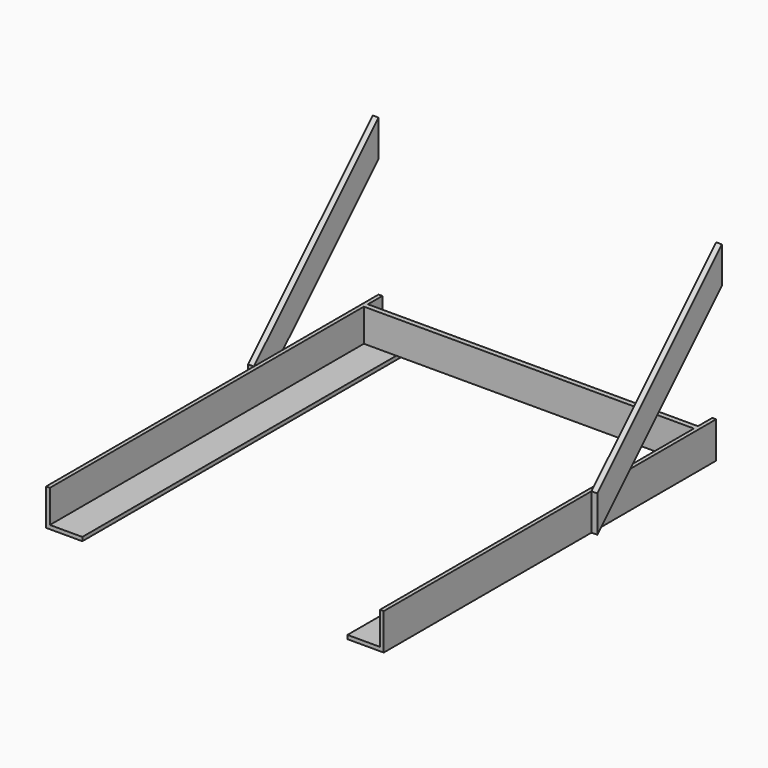
from build123d import *

# Parameters (mm, degrees)
F0_W     = 4.191
F0_H     = 35.941
F0_W_2   = 35.687
F0_H_2   = 4.191
F1_DEPTH = 228.6
F2_W     = 35.687
F2_H     = 5.588
F2_W_2   = 291.719
F3_DEPTH = 35.941
F5_DEPTH = 6.35


with BuildPart() as f1:
    # F0 (on Front) → F1 (new body, symmetric)
    with BuildSketch(Plane.XZ):
        with Locations((-183.642, -17.9705)):
            Rectangle(F0_W, F0_H)
        with Locations((-163.703, -38.0365)):
            Rectangle(F0_W_2, F0_H_2)
        with Locations((-183.642, -38.0365)):
            Rectangle(F0_W, F0_H_2)
    extrude(amount=F1_DEPTH, both=True)



with BuildPart() as f1b:
    # F0 (on Front) → F1, piece 2 (new body, symmetric)
    with BuildSketch(Plane.XZ):
        with Locations((183.642, -17.9705)):
            Rectangle(F0_W, F0_H)
        with Locations((183.642, -38.0365)):
            Rectangle(F0_W, F0_H_2)
        with Locations((163.703, -38.0365)):
            Rectangle(F0_W_2, F0_H_2)
    extrude(amount=F1_DEPTH, both=True)


with BuildPart() as f1_1:
    add(f1.part)

    add(f1b.part)  # F3 merges F1b
    # F2 (on face) → F3 (join)
    with BuildSketch(Plane.XY.offset(-35.941)):
        with Locations((-163.703, 205.994)):
            Rectangle(F2_W, F2_H)
        with Locations((0, 205.994)):
            Rectangle(F2_W_2, F2_H)
        with Locations((163.703, 205.994)):
            Rectangle(F2_W, F2_H)
    extrude(amount=F3_DEPTH)

    # F4 (on face) → F5 (join)
    with BuildSketch(Plane.YZ.offset(185.7375)):
        Polygon((228.6, 171.45), (57.15, 0), (97.282, 0), (228.6, 131.318), align=None)
        Polygon((97.282, 0), (57.15, 0), (57.15, -40.132), align=None)
    extrude(amount=F5_DEPTH)

    # F6: F1 across plane


with BuildPart() as f1_2:
    add(f1_1.part)
    add(f1_1.part.mirror(Plane.YZ))


solid = f1_2.part
